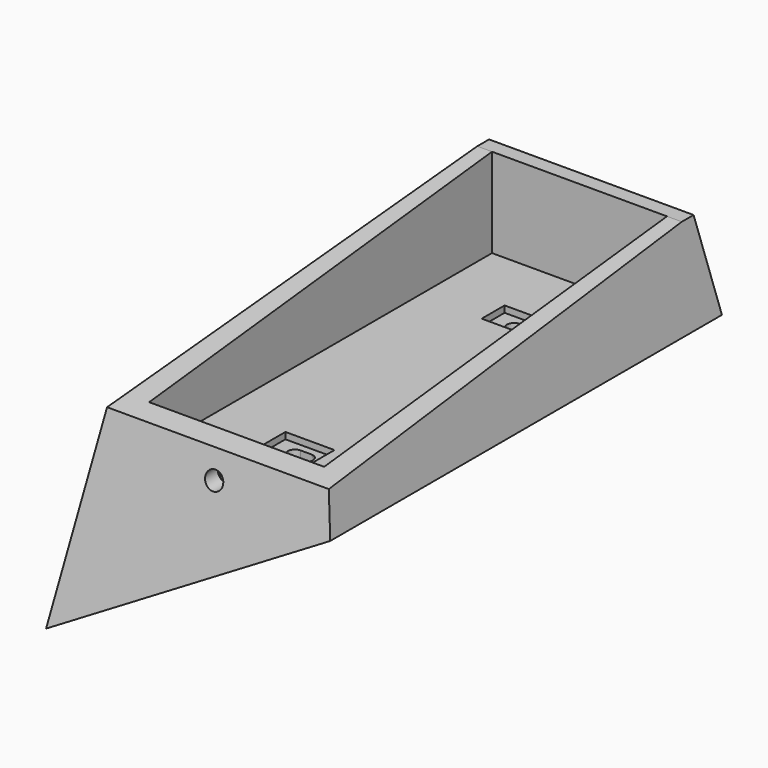
from build123d import *

# Parameters (mm, degrees)
EXTRUDE008_START = 76.7
SKETCH009_R      = 3.05
EXTRUDE008_DEPTH = 923.3
EXTRUDE007_START = -5
SKETCH008_W      = 25.1
SKETCH008_H      = 16
EXTRUDE007_DEPTH = 75
EXTRUDE006_DEPTH = 60
SKETCH004_R      = 2.325
EXTRUDE005_DEPTH = 150
EXTRUDE004_DEPTH = 2.2
EXTRUDE003_DEPTH = 50
EXTRUDE001_DEPTH = 107.5
SKETCH_W         = 69.2
SKETCH_H         = 215
EXTRUDE_DEPTH    = 30.2


with BuildPart() as extrude008:
    # Sketch009 → Extrude008 (new body)
    with BuildSketch(Plane.XZ.offset(EXTRUDE008_START)):
        with Locations((0, 4.7)):
            Circle(SKETCH009_R)
    extrude(amount=EXTRUDE008_DEPTH)


with BuildPart() as extrude007:
    # Sketch008 → Extrude007 (new body)
    with BuildSketch(Plane.XY.offset(EXTRUDE007_START)):
        with Locations((-15.05, 62.5)):
            Rectangle(SKETCH008_W, SKETCH008_H)
        with Locations((15.05, 62.5)):
            Rectangle(SKETCH008_W, SKETCH008_H)
        with Locations((-15.05, 31.5)):
            Rectangle(SKETCH008_W, SKETCH008_H)
        with Locations((15.05, 31.5)):
            Rectangle(SKETCH008_W, SKETCH008_H)
        with Locations((15.05, 10.5)):
            Rectangle(SKETCH008_W, SKETCH008_H)
        with Locations((-15.05, 10.5)):
            Rectangle(SKETCH008_W, SKETCH008_H)
    extrude(amount=-EXTRUDE007_DEPTH)


with BuildPart() as part_mirroring002:
    # Part__Mirroring002: instance of Extrude007
    add(extrude007.part.mirror(Plane(origin=(0, 0, 0), x_dir=(1, 0, 0), z_dir=(0, 1, 0))))


with BuildPart() as screwslotupper:
    # Sketch006 → Loft section 0
    with BuildSketch(Plane.XY):
        with BuildLine():
            ThreePointArc((-1.2, 48.75), (-3.6, 46.35), (-1.2, 43.95))
            Line((-1.2, 43.95), (1.2, 43.95))
            ThreePointArc((1.2, 43.95), (3.6, 46.35), (1.2, 48.75))
            Line((1.2, 48.75), (-1.2, 48.75))
        make_face()
    # Sketch007 → Loft section 1
    with BuildSketch(Plane.XY.offset(-30)):
        with BuildLine():
            ThreePointArc((-1.2, 48.75), (-3.6, 46.35), (-1.2, 43.95))
            Line((-1.2, 43.95), (18.520508, 43.95))
            ThreePointArc((18.520508, 43.95), (20.920508, 46.35), (18.520508, 48.75))
            Line((18.520508, 48.75), (-1.2, 48.75))
        make_face()
    loft()


with BuildPart() as screwslotlower:
    # Part__Mirroring001: instance of ScrewSlotUpper
    add(screwslotupper.part.mirror(Plane(origin=(0, 0, 0), x_dir=(1, 0, 0), z_dir=(0, 1, 0))))


with BuildPart() as anglefacecutout:
    # Sketch005 → Extrude006 (new body, symmetric)
    with BuildSketch(Plane.YZ):
        Polygon((-117.5, 9.68), (-117.5, 30.2), (72.5, 30.2), align=None)
    extrude(amount=EXTRUDE006_DEPTH, both=True)


with BuildPart() as securityhole:
    # Sketch004 → Extrude005 (new body)
    with BuildSketch(Plane.XZ):
        with Locations((0, 4.7)):
            Circle(SKETCH004_R)
    extrude(amount=EXTRUDE005_DEPTH)


with BuildPart() as mountingsquares:
    # Sketch001 → Extrude004 (new body)
    with BuildSketch(Plane.XY):
        Polygon((0, 51.2), (-8.3, 51.2), (-8.3, 46.35), (-8.3, 41.5), (0, 41.5), (8.3, 41.5), (8.3, 46.35), (8.3, 51.2), align=None)
        Polygon((0, -51.2), (8.3, -51.2), (8.3, -46.35), (8.3, -41.5), (0, -41.5), (-8.3, -41.5), (-8.3, -46.35), (-8.3, -51.2), align=None)
    extrude(amount=-EXTRUDE004_DEPTH)


with BuildPart() as topbottomanglecutout:
    # Sketch003 → Extrude003 (new body, symmetric)
    with BuildSketch(Plane.YZ):
        Polygon((-77.5, 30.2), (-95.132698, -69.8), (-145.132698, -69.8), (-145.132698, 30.2), (-95.132698, 30.2), align=None)
        Polygon((77.5, 30.2), (95.132698, -69.8), (145.132698, -69.8), (145.132698, 30.2), (95.132698, 30.2), align=None)
    extrude(amount=EXTRUDE003_DEPTH, both=True)


with BuildPart() as extrude001:
    # Sketch002 → Extrude001 (new body, symmetric)
    with BuildSketch(Plane.XZ):
        Polygon((0, 0), (-34.6, 0), (-34.6, 30.2), (-39.925075, 0), (48.975355, -51.326687), (34.6, 30.2), (34.6, 0), align=None)
    extrude(amount=EXTRUDE001_DEPTH, both=True)


with BuildPart() as cut001:
    # Sketch → Extrude (new body)
    with BuildSketch(Plane.XY):
        Rectangle(SKETCH_W, SKETCH_H)
        Polygon((29.6, 72.5), (-29.6, 72.5), (-29.6, -72.5), (0, -72.5), (29.6, -72.5), (29.6, 0), align=None, mode=Mode.SUBTRACT)
    extrude(amount=EXTRUDE_DEPTH)

    # Fusion: union Extrude001
    add(extrude001.part)

    # Cut: cut TopBottomAngleCutout
    add(topbottomanglecutout.part, mode=Mode.SUBTRACT)

    # Cut001: cut MountingSquares
    add(mountingsquares.part, mode=Mode.SUBTRACT)


with BuildPart() as cut008:
    # Part__Mirroring: instance of Cut001
    add(cut001.part.mirror(Plane(origin=(0, 0, 0), x_dir=(0, -1, 0), z_dir=(1, 0, 0))))

    # Cut002: cut SecurityHole
    add(securityhole.part, mode=Mode.SUBTRACT)

    # Cut003: cut AngleFaceCutout
    add(anglefacecutout.part, mode=Mode.SUBTRACT)

    # Cut004: cut ScrewSlotUpper
    add(screwslotupper.part, mode=Mode.SUBTRACT)

    # Cut005: cut ScrewSlotLower
    add(screwslotlower.part, mode=Mode.SUBTRACT)

    # Cut006: cut Part__Mirroring002
    add(part_mirroring002.part, mode=Mode.SUBTRACT)

    # Cut007: cut Extrude007
    add(extrude007.part, mode=Mode.SUBTRACT)

    # Cut008: cut Extrude008
    add(extrude008.part, mode=Mode.SUBTRACT)


solid = cut008.part
